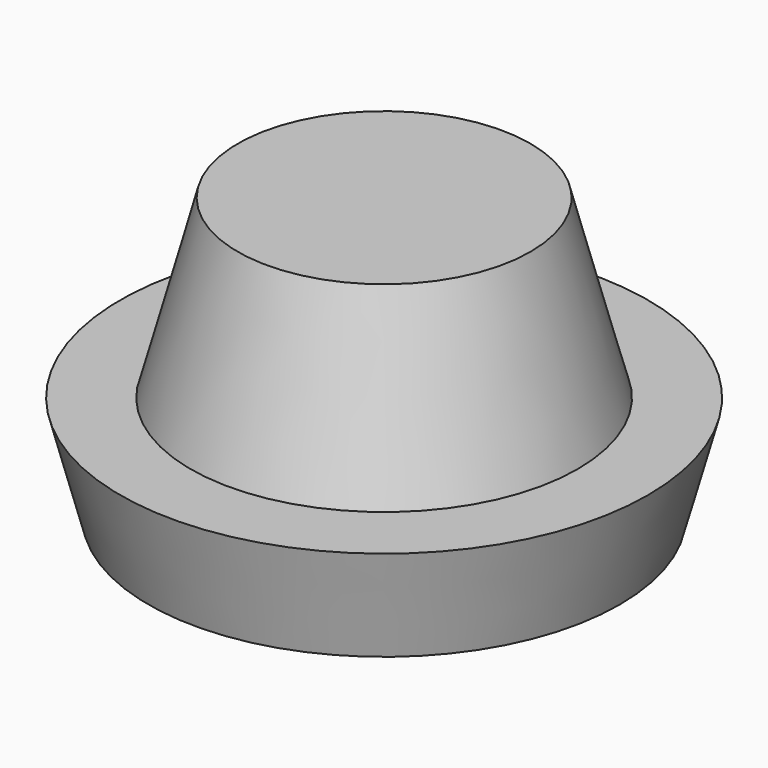
from build123d import *

# Parameters (mm, degrees)
F0_R     = 27.5
F1_DEPTH = 25
F1_TAPER = 15
F0_R_2   = 37.5
F2_DEPTH = 15
F2_TAPER = 15


with BuildPart() as f1:
    # F0 (on Top) → F1 (new body)
    with BuildSketch(Plane.XY):
        Circle(F0_R)
    extrude(amount=F1_DEPTH, taper=F1_TAPER)

    # F0 (on Top) → F2 (join)
    with BuildSketch(Plane.XY):
        Circle(F0_R_2)
        Circle(F0_R, mode=Mode.SUBTRACT)
        Circle(F0_R)
    extrude(amount=-F2_DEPTH, taper=F2_TAPER)


solid = f1.part
